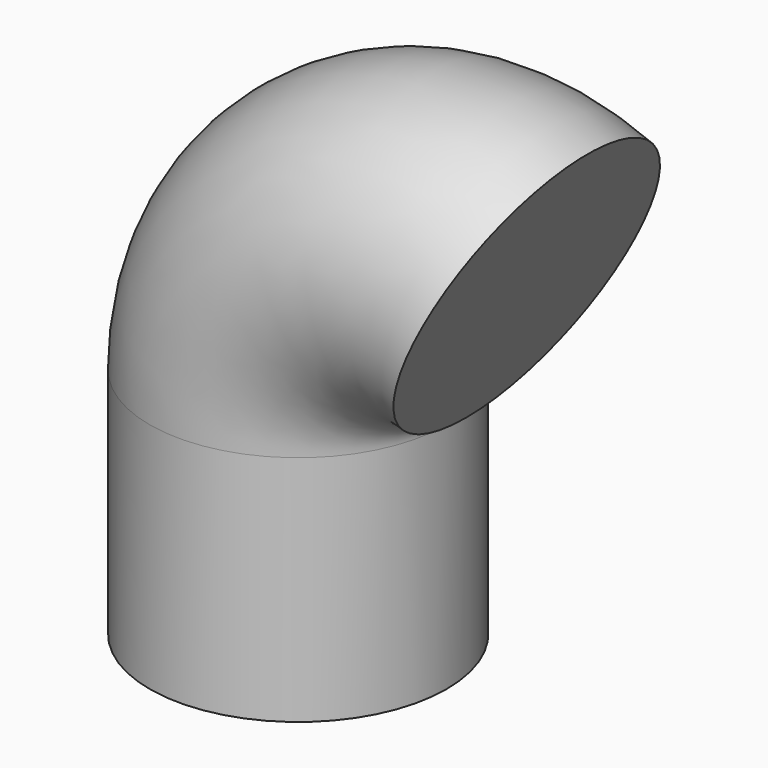
from build123d import *

# Parameters (mm, degrees)
F1_R = 22.0188738011


with BuildPart() as f2:
    # F2: sweep along a path in F0
    with BuildLine(Plane.XZ) as f2_path:
        Line((0, 0), (0, 34.4952121377))
        ThreePointArc((0, 34.4952121377), (10.9716585371, 54.6896322863), (33.8846743107, 56.4744584262))
    # F1 (on Top) → F2 (sweep)
    with BuildSketch(Plane.XY):
        Circle(F1_R)
    sweep(path=f2_path.line)


solid = f2.part
